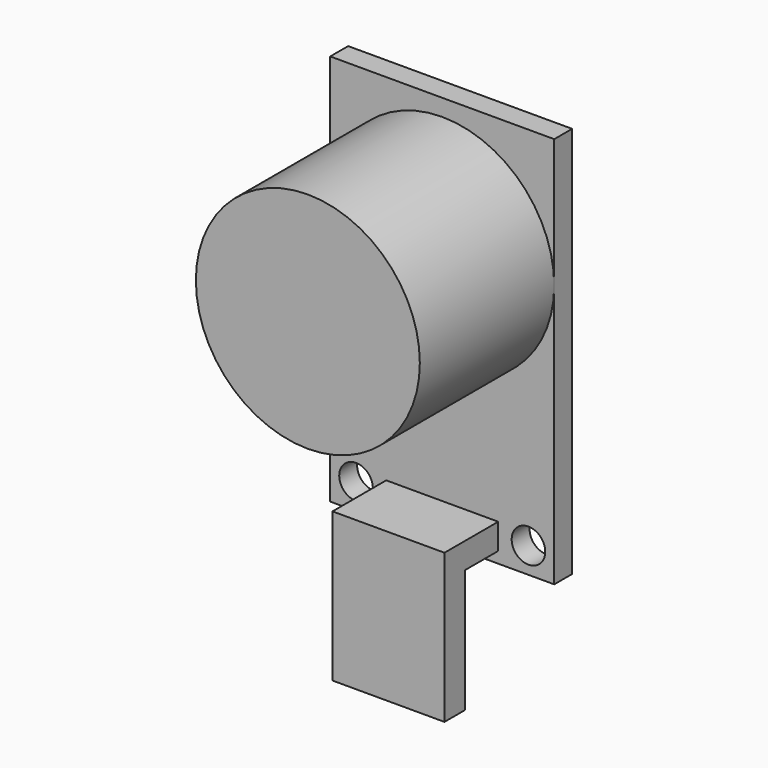
from build123d import *

# Parameters (mm, degrees)
SKETCH009_W             = 20
SKETCH009_H             = 35
SKETCH009_R             = 1.5
PAD007_DEPTH            = 2
SKETCH010_R             = 10
PAD008_DEPTH            = 15
SKETCH011_R             = 1.5
PAD009_DEPTH            = 1
SKETCH012_W             = 10
SKETCH012_H             = 2.3
PAD010_DEPTH            = 6
SKETCH013_W             = 10
SKETCH013_H             = 2.3
PAD011_DEPTH            = 11
BODY002_PLACEMENT_ANGLE = 180


with BuildPart() as part:
    # Sketch009 → Pad007 (new body)
    with BuildSketch(Plane.XZ):
        Rectangle(SKETCH009_W, SKETCH009_H)
        with Locations((7.7, 15.2)):
            Circle(SKETCH009_R, mode=Mode.SUBTRACT)
        with Locations((-7.7, 15.2)):
            Circle(SKETCH009_R, mode=Mode.SUBTRACT)
    extrude(amount=PAD007_DEPTH)

    # Sketch010 (on Face8 of Pad007) → Pad008 (join)
    with BuildSketch(Plane.XZ.offset(2)):
        with Locations((0, -6)):
            Circle(SKETCH010_R)
    extrude(amount=PAD008_DEPTH)

    # Sketch011 (on Face4 of Pad008) → Pad009 (join)
    with BuildSketch(Plane(origin=(0, 0, 0), x_dir=(1, 0, 0), z_dir=(0, 1, 0))):
        with Locations((0, 7.5)):
            Circle(SKETCH011_R)
    extrude(amount=PAD009_DEPTH)

    # Sketch012 (on Face5 of Pad009) → Pad010 (join)
    with BuildSketch(Plane.XZ.offset(2)):
        with Locations((0, 15.35)):
            Rectangle(SKETCH012_W, SKETCH012_H)
    extrude(amount=PAD010_DEPTH)

    # Sketch013 (on Face13 of Pad010) → Pad011 (join)
    with BuildSketch(Plane(origin=(0, 0, 16.5), x_dir=(-1, 0, 0), z_dir=(0, 0, 1))):
        with Locations((0, 6.85)):
            Rectangle(SKETCH013_W, SKETCH013_H)
    extrude(amount=PAD011_DEPTH)


with BuildPart() as part_1:
    # Body002 placement: moved
    add(part.part.moved(Location((26, -26, 34))).rotate(Axis((26, -26, 34), (0, 1, 0)), BODY002_PLACEMENT_ANGLE))


solid = part_1.part
